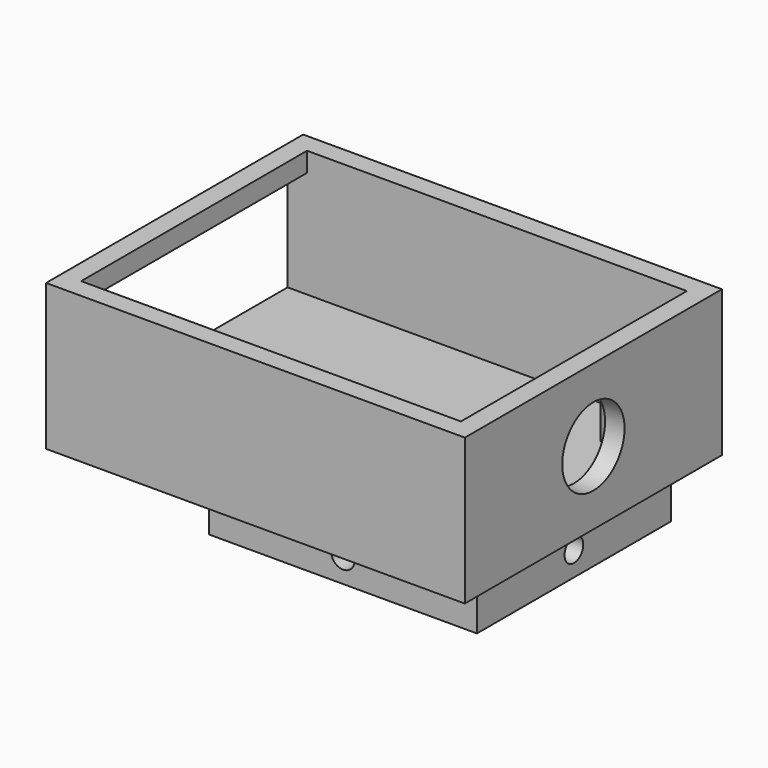
from build123d import *

# Parameters (mm, degrees)
F0_W     = 43
F0_H     = 33
F0_W_2   = 39
F0_H_2   = 29
F1_DEPTH = 15
F0_R     = 1.1
F2_DEPTH = 2
F3_DEPTH = 7
F4_R     = 4
F5_DEPTH = 2
F6_W     = 29
F6_H     = 11
F7_DEPTH = 2
F8_W     = 27.5
F8_H     = 24.9
F9_DEPTH = 5
F11_D    = 2.4
F13_D    = 2.4


with BuildPart() as f1:
    # F0 (on Top) → F1 (new body)
    with BuildSketch(Plane.XY):
        Rectangle(F0_W, F0_H)
        Rectangle(F0_W_2, F0_H_2, mode=Mode.SUBTRACT)
    extrude(amount=F1_DEPTH)

    # F0 (on Top) → F2 (join)
    with BuildSketch(Plane.XY):
        Rectangle(F0_W_2, F0_H_2)
        with Locations((15.5, -10.16)):
            Circle(F0_R, mode=Mode.SUBTRACT)
        with Locations((15.5, 10.16)):
            Circle(F0_R, mode=Mode.SUBTRACT)
    extrude(amount=F2_DEPTH)

    # F0 (on Top) → F3 (join)
    with BuildSketch(Plane.XY):
        with Locations((15.5, -10.16)):
            Circle(F0_R)
        with Locations((15.5, 10.16)):
            Circle(F0_R)
    extrude(amount=F3_DEPTH)

    # F4 (on face) → F5 (cut, through all)
    with BuildSketch(Plane.YZ.offset(21.5)):
        with Locations((0, 7.5)):
            Circle(F4_R)
    extrude(amount=-F5_DEPTH, mode=Mode.SUBTRACT)

    # F6 (on face) → F7 (cut, through all)
    with BuildSketch(Plane(origin=(-21.5, 0, 0), x_dir=(0, -1, 0), z_dir=(-1, 0, 0))):
        with Locations((0, 7.5)):
            Rectangle(F6_W, F6_H)
    extrude(amount=-F7_DEPTH, mode=Mode.SUBTRACT)

    # F8 (on face) → F9 (join)
    with BuildSketch(Plane(origin=(0, 0, 0), x_dir=(1, 0, 0), z_dir=(0, 0, -1))):
        with Locations((5.75, 0)):
            Rectangle(F8_W, F8_H)
        with BuildLine():
            Line((6.75, 9.45), (16.5, 9.45))
            Line((16.5, 9.45), (16.5, 1))
            ThreePointArc((16.5, 1), (17.2071067812, 0.7071067812), (17.5, 0))
            ThreePointArc((17.5, 0), (17.2071067812, -0.7071067812), (16.5, -1))
            Line((16.5, -1), (16.5, -9.45))
            Line((16.5, -9.45), (6.75, -9.45))
            ThreePointArc((6.75, -9.45), (5.75, -10.45), (4.75, -9.45))
            Line((4.75, -9.45), (-5, -9.45))
            Line((-5, -9.45), (-5, -1))
            ThreePointArc((-5, -1), (-6, 0), (-5, 1))
            Line((-5, 1), (-5, 9.45))
            Line((-5, 9.45), (4.75, 9.45))
            ThreePointArc((4.75, 9.45), (5.75, 10.45), (6.75, 9.45))
        make_face(mode=Mode.SUBTRACT)
        with BuildLine():
            ThreePointArc((17.5, 0), (17.2071067812, 0.7071067812), (16.5, 1))
            Line((16.5, 1), (16.5, -1))
            ThreePointArc((16.5, -1), (17.2071067812, -0.7071067812), (17.5, 0))
        make_face()
        with BuildLine():
            Line((16.5, -1), (16.5, 1))
            ThreePointArc((16.5, 1), (15.5, 0), (16.5, -1))
        make_face()
        with BuildLine():
            Line((4.75, -9.45), (6.75, -9.45))
            ThreePointArc((6.75, -9.45), (5.75, -8.45), (4.75, -9.45))
        make_face()
        with BuildLine():
            ThreePointArc((4.75, -9.45), (5.75, -10.45), (6.75, -9.45))
            Line((6.75, -9.45), (4.75, -9.45))
        make_face()
        with BuildLine():
            ThreePointArc((4.75, 9.45), (5.75, 8.45), (6.75, 9.45))
            Line((6.75, 9.45), (4.75, 9.45))
        make_face()
        with BuildLine():
            Line((4.75, 9.45), (6.75, 9.45))
            ThreePointArc((6.75, 9.45), (5.75, 10.45), (4.75, 9.45))
        make_face()
        with BuildLine():
            ThreePointArc((-4, 0), (-4.2928932188, 0.7071067812), (-5, 1))
            Line((-5, 1), (-5, -1))
            ThreePointArc((-5, -1), (-4.2928932188, -0.7071067812), (-4, 0))
        make_face()
        with BuildLine():
            Line((-5, -1), (-5, 1))
            ThreePointArc((-5, 1), (-6, 0), (-5, -1))
        make_face()
    extrude(amount=F9_DEPTH)

    # F11 (through all)
    with Locations(Plane.YZ.offset(19.5)):
        with Locations((0, -2.5)):
            Hole(F11_D / 2)

    # F13 (through all)
    with Locations(Plane(origin=(0, 12.45, 0), x_dir=(-1, 0, 0), z_dir=(0, 1, 0))):
        with Locations((-5.75, -2.5)):
            Hole(F13_D / 2)


solid = f1.part
